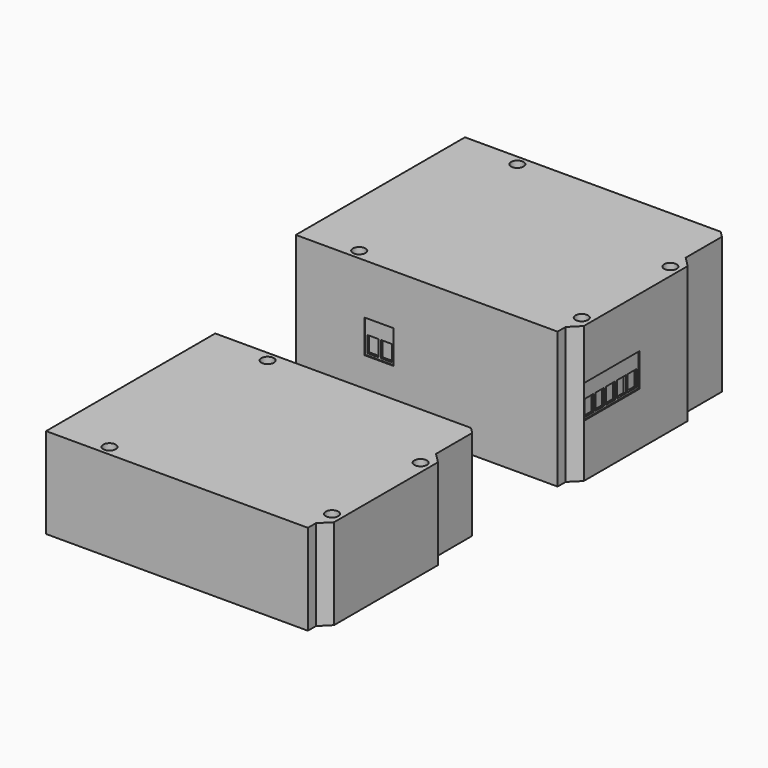
from build123d import *

# Parameters (mm, degrees)
F0_R      = 1.5875
F1_DEPTH  = 34.417
F2_DEPTH  = 22.86
F3_W      = 2.794
F3_H      = 4.064
F4_DEPTH  = 0.79375
F3_W_2    = 17.526
F3_H_2    = 8.382
F5_DEPTH  = 0.254
F6_W      = 2.794
F6_H      = 4.064
F7_DEPTH  = 0.79375
F6_W_2    = 7.3152
F6_H_2    = 8.382
F8_DEPTH  = 0.254
F9_W      = 7.3152
F9_H      = 8.382
F9_W_2    = 2.794
F9_H_2    = 4.064
F10_DEPTH = 0.254
F11_DEPTH = 0.79375
F12_W     = 7.62
F12_H     = 5.08
F12_R     = 0.3175
F13_DEPTH = 0.254
F14_DEPTH = 6.731
F6_W_3    = 12.065
F6_H_3    = 10.795
F15_DEPTH = 6.35
F6_W_4    = 8.763
F6_H_4    = 10.668
F6_R      = 3.175
F16_DEPTH = 1.5875


with BuildPart() as f1:
    # F0 (on Top) → F1 (new body)
    with BuildSketch(Plane.XY):
        Polygon((0, 53.34), (0, 0), (66.04, 0), (66.04, 2.54), (68.58, 5.08), (68.58, 37.846), (66.04, 40.386), (66.04, 51.816), (64.516, 53.34), align=None)
        with Locations((13.97, 2.54)):
            Circle(F0_R, mode=Mode.SUBTRACT)
        with Locations((15.24, 50.8)):
            Circle(F0_R, mode=Mode.SUBTRACT)
        with Locations((66.04, 7.62)):
            Circle(F0_R, mode=Mode.SUBTRACT)
        with Locations((66.04, 35.56)):
            Circle(F0_R, mode=Mode.SUBTRACT)
    extrude(amount=F1_DEPTH)

    # F3 (on face) → F4 (cut)
    with BuildSketch(Plane.YZ.offset(68.58)):
        with Locations((7.0358, 15.875)):
            Rectangle(F3_W, F3_H)
        with Locations((10.4394, 15.875)):
            Rectangle(F3_W, F3_H)
        with Locations((13.843, 15.875)):
            Rectangle(F3_W, F3_H)
        with Locations((17.2466, 15.875)):
            Rectangle(F3_W, F3_H)
        with Locations((20.6502, 15.875)):
            Rectangle(F3_W, F3_H)
    extrude(amount=-F4_DEPTH, mode=Mode.SUBTRACT)

    # F3 (on face) → F5 (cut)
    with BuildSketch(Plane.YZ.offset(68.58)):
        with Locations((13.843, 17.526)):
            Rectangle(F3_W_2, F3_H_2)
        with Locations((7.0358, 15.875)):
            Rectangle(F3_W, F3_H, mode=Mode.SUBTRACT)
        with Locations((10.4394, 15.875)):
            Rectangle(F3_W, F3_H, mode=Mode.SUBTRACT)
        with Locations((13.843, 15.875)):
            Rectangle(F3_W, F3_H, mode=Mode.SUBTRACT)
        with Locations((17.2466, 15.875)):
            Rectangle(F3_W, F3_H, mode=Mode.SUBTRACT)
        with Locations((20.6502, 15.875)):
            Rectangle(F3_W, F3_H, mode=Mode.SUBTRACT)
    extrude(amount=-F5_DEPTH, mode=Mode.SUBTRACT)

    # F6 (on face) → F7 (cut)
    with BuildSketch(Plane(origin=(0, 0, 0), x_dir=(0, -1, 0), z_dir=(-1, 0, 0))):
        with Locations((-46.9646, 15.875)):
            Rectangle(F6_W, F6_H)
        with Locations((-29.7942, 15.875)):
            Rectangle(F6_W, F6_H)
        with Locations((-26.3906, 15.875)):
            Rectangle(F6_W, F6_H)
        with Locations((-22.987, 15.875)):
            Rectangle(F6_W, F6_H)
        with Locations((-19.5834, 15.875)):
            Rectangle(F6_W, F6_H)
        with Locations((-16.1798, 15.875)):
            Rectangle(F6_W, F6_H)
        with Locations((-50.3682, 15.875)):
            Rectangle(F6_W, F6_H)
    extrude(amount=-F7_DEPTH, mode=Mode.SUBTRACT)

    # F6 (on face) → F8 (cut)
    with BuildSketch(Plane(origin=(0, 0, 0), x_dir=(0, -1, 0), z_dir=(-1, 0, 0))):
        with Locations((-48.6664, 17.526)):
            Rectangle(F6_W_2, F6_H_2)
        with Locations((-50.3682, 15.875)):
            Rectangle(F6_W, F6_H, mode=Mode.SUBTRACT)
        with Locations((-46.9646, 15.875)):
            Rectangle(F6_W, F6_H, mode=Mode.SUBTRACT)
        Polygon((-24.384, 21.717), (-31.75, 21.717), (-31.75, 13.335), (-24.384, 13.335), (-24.384, 13.843), (-24.384, 17.907), align=None)
        with Locations((-29.7942, 15.875)):
            Rectangle(F6_W, F6_H, mode=Mode.SUBTRACT)
        with Locations((-26.3906, 15.875)):
            Rectangle(F6_W, F6_H, mode=Mode.SUBTRACT)
        Polygon((-14.224, 21.717), (-24.384, 21.717), (-24.384, 17.907), (-21.59, 17.907), (-21.59, 13.843), (-24.384, 13.843), (-24.384, 13.335), (-22.606, 13.335), (-14.224, 13.335), align=None)
        with Locations((-19.5834, 15.875)):
            Rectangle(F6_W, F6_H, mode=Mode.SUBTRACT)
        with Locations((-16.1798, 15.875)):
            Rectangle(F6_W, F6_H, mode=Mode.SUBTRACT)
    extrude(amount=-F8_DEPTH, mode=Mode.SUBTRACT)

    # F9 (on face) → F10 (cut)
    with BuildSketch(Plane.XZ):
        with Locations((20.9296, 17.526)):
            Rectangle(F9_W, F9_H)
        with Locations((19.2278, 15.875)):
            Rectangle(F9_W_2, F9_H_2, mode=Mode.SUBTRACT)
        with Locations((22.6314, 15.875)):
            Rectangle(F9_W_2, F9_H_2, mode=Mode.SUBTRACT)
    extrude(amount=-F10_DEPTH, mode=Mode.SUBTRACT)

    # F11 (cut): faces of the model
    f11_faces = [f1.faces().sort_by_distance(p)[0] for p in [
        (19.2278, 0, 15.875),
        (22.6314, 0, 15.875),
    ]]
    extrude(f11_faces, amount=-F11_DEPTH, mode=Mode.SUBTRACT)

    # F12 (on face) → F13 (cut)
    with BuildSketch(Plane(origin=(0, 53.34, 0), x_dir=(-1, 0, 0), z_dir=(0, 1, 0))):
        with Locations((-9.398, 15.875)):
            Rectangle(F12_W, F12_H)
        with Locations((-11.938, 14.605)):
            Circle(F12_R, mode=Mode.SUBTRACT)
        with Locations((-9.398, 14.605)):
            Circle(F12_R, mode=Mode.SUBTRACT)
        with Locations((-11.938, 17.145)):
            Circle(F12_R, mode=Mode.SUBTRACT)
        with Locations((-9.398, 17.145)):
            Circle(F12_R, mode=Mode.SUBTRACT)
        with Locations((-6.858, 14.605)):
            Circle(F12_R, mode=Mode.SUBTRACT)
        with Locations((-6.858, 17.145)):
            Circle(F12_R, mode=Mode.SUBTRACT)
    extrude(amount=-F13_DEPTH, mode=Mode.SUBTRACT)

    # F14 (add): faces of the model
    f14_faces = [f1.faces().sort_by_distance(p)[0] for p in [
        (9.398, 53.34, 17.145),
        (6.858, 53.34, 17.145),
        (11.938, 53.34, 17.145),
        (11.938, 53.34, 14.605),
        (9.398, 53.34, 14.605),
        (6.858, 53.34, 14.605),
    ]]
    extrude(f14_faces, amount=F14_DEPTH)

    # F6 (on face) → F15 (join)
    with BuildSketch(Plane(origin=(0, 0, 0), x_dir=(0, -1, 0), z_dir=(-1, 0, 0))):
        with Locations((-38.1635, 6.985)):
            Rectangle(F6_W_3, F6_H_3)
        Polygon((-33.909, 3.175), (-42.418, 3.175), (-42.418, 8.7249), (-40.7035, 11.0109), (-35.6235, 11.0109), (-33.909, 8.7249), align=None, mode=Mode.SUBTRACT)
    extrude(amount=F15_DEPTH)

    # F6 (on face) → F16 (join)
    with BuildSketch(Plane(origin=(0, 0, 0), x_dir=(0, -1, 0), z_dir=(-1, 0, 0))):
        with Locations((-8.4455, 6.9215)):
            Rectangle(F6_W_4, F6_H_4)
        with Locations((-8.4455, 7.8105)):
            Circle(F6_R, mode=Mode.SUBTRACT)
    extrude(amount=F16_DEPTH)


with BuildPart() as f2:
    # F0 (on Top) → F2 (new body)
    with BuildSketch(Plane.XY):
        Polygon((0, -25.4), (0, -78.74), (66.04, -78.74), (66.04, -76.2), (68.58, -73.66), (68.58, -40.894), (66.04, -38.354), (66.04, -26.924), (64.516, -25.4), align=None)
        with Locations((13.97, -76.2)):
            Circle(F0_R, mode=Mode.SUBTRACT)
        with Locations((15.24, -27.94)):
            Circle(F0_R, mode=Mode.SUBTRACT)
        with Locations((66.04, -71.12)):
            Circle(F0_R, mode=Mode.SUBTRACT)
        with Locations((66.04, -43.18)):
            Circle(F0_R, mode=Mode.SUBTRACT)
    extrude(amount=F2_DEPTH)

    # F6 (on face) → F15, piece 2 (join)
    with BuildSketch(Plane(origin=(0, 0, 0), x_dir=(0, -1, 0), z_dir=(-1, 0, 0))):
        with Locations((40.5765, 6.985)):
            Rectangle(F6_W_3, F6_H_3)
        Polygon((44.831, 3.175), (36.322, 3.175), (36.322, 8.7249), (38.0365, 11.0109), (43.1165, 11.0109), (44.831, 8.7249), align=None, mode=Mode.SUBTRACT)
    extrude(amount=F15_DEPTH)

    # F6 (on face) → F16, piece 2 (join)
    with BuildSketch(Plane(origin=(0, 0, 0), x_dir=(0, -1, 0), z_dir=(-1, 0, 0))):
        with Locations((70.2945, 6.9215)):
            Rectangle(F6_W_4, F6_H_4)
        with Locations((70.2945, 7.8105)):
            Circle(F6_R, mode=Mode.SUBTRACT)
    extrude(amount=F16_DEPTH)


solid = Compound([f1.part, f2.part])
